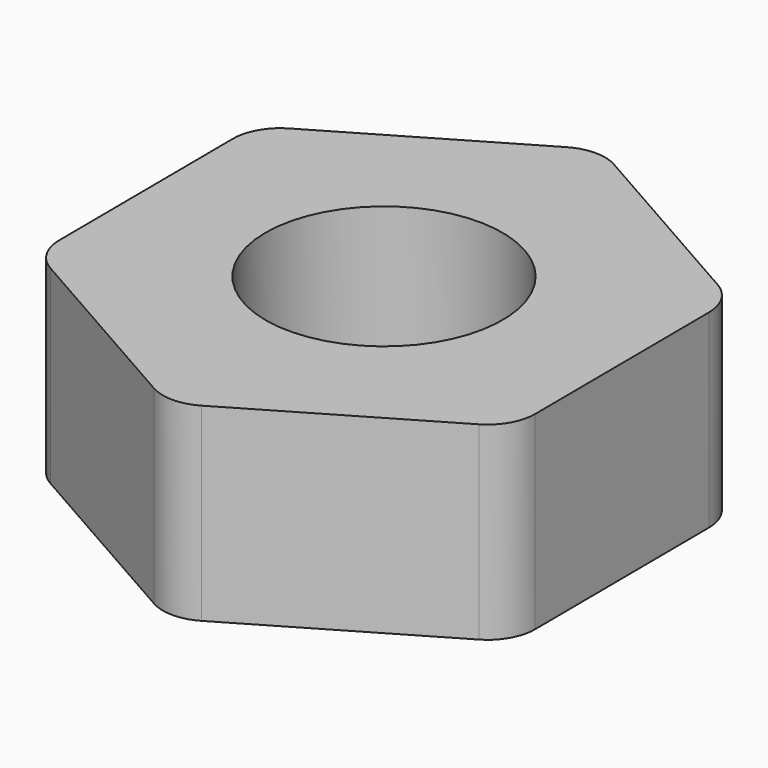
from build123d import *

# Parameters (mm, degrees)
F1_DEPTH = 4
F3_D     = 5
F3_DEPTH = 10
F3_TIP   = 1.5021515476
F4_R     = 1
F5_SCALE = 0.25


with BuildPart() as f1:
    # F0 (on Top) → F1 (new body)
    with BuildSketch(Plane.XY):
        Polygon((0.0366512368, -5.7733863564), (5.0182248689, -2.8549522761), (4.9815736321, 2.9184340803), (-0.0366512368, 5.7733863564), (-5.0182248689, 2.8549522761), (-4.9815736321, -2.9184340803), align=None)
    extrude(amount=F1_DEPTH)

    # F3
    with Locations(Plane.XY.offset(4)):
        with Locations((0, 0)):
            Hole(F3_D / 2, depth=F3_DEPTH)
            with Locations((0, 0, -(F3_DEPTH + F3_TIP / 2))):  # 118° drill point
                Cone(0, F3_D / 2, F3_TIP, mode=Mode.SUBTRACT)

    # F4
    f4_edges = [f1.edges().sort_by_distance(p)[0] for p in [
        (-5.018225, 2.854952, 2),
        (-0.036651, 5.773386, 2),
        (-4.981574, -2.918434, 2),
        (0.036651, -5.773386, 2),
        (5.018225, -2.854952, 2),
        (4.981574, 2.918434, 2),
    ]]
    fillet(f4_edges, radius=F4_R)


with BuildPart() as f1_1:
    # F5: moved
    add(f1.part.scale(F5_SCALE))


solid = f1_1.part
